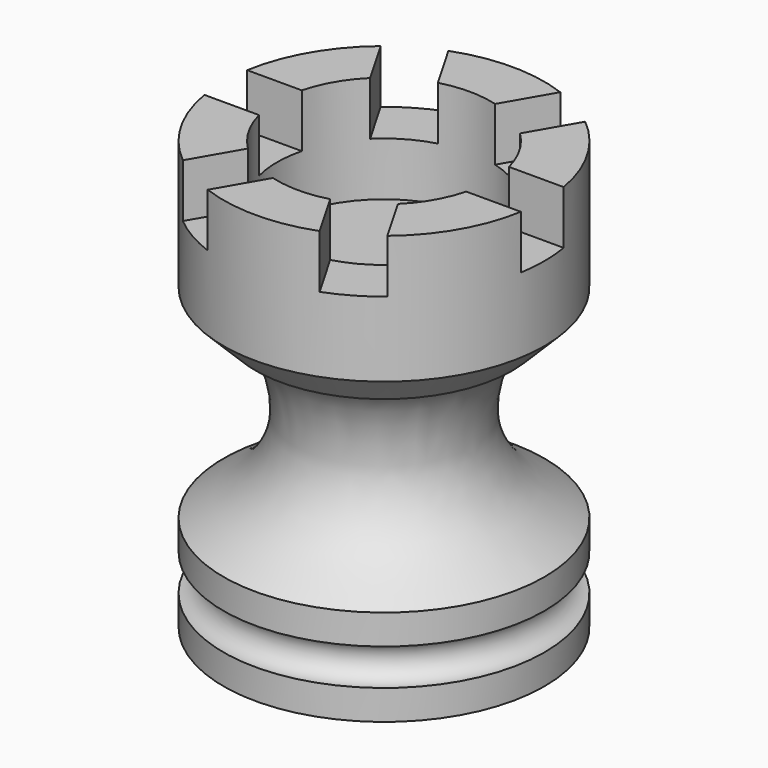
from build123d import *

# Parameters (mm, degrees)
F0_W     = 19.05
F0_H     = 15.875
F2_R     = 12.7
F3_DEPTH = 12.7
F4_W     = 18.4452394214
F4_H     = 6.35
F5_DEPTH = 6.35
F6_SIZE  = 3.81


with BuildPart() as f1:
    # F0 (on Front) → F1 (revolve)
    with BuildSketch(Plane.XZ):
        with Locations((9.525, 42.8625)):
            Rectangle(F0_W, F0_H)
        Polygon((0, 34.925), (0, 31.75), (14.253414236, 31.75), (19.05, 31.75), (19.05, 34.925), align=None)
        with BuildLine():
            Line((0, 31.75), (0, 0))
            Line((0, 0), (19.05, 0))
            Line((19.05, 0), (19.05, 11.43))
            add(Edge.make_bspline(
                [(19.05, 11.43), (17.2572086339, 12.6373357985), (13.2799667332, 14.8563898217), (9.7704239186, 21.2214141551), (11.2775648251, 28.6217539717), (13.1032264861, 30.8617640908), (14.253414236, 31.75)],
                knots=[0, 0, 0, 0, 0.2595608877, 0.5242966156, 0.7928897599, 1, 1, 1, 1], degree=3))
            Line((14.253414236, 31.75), (0, 31.75))
        make_face()
    revolve(axis=Axis((0, 0, 42.8625), (0, 0, 1)))

    # F2 (on face) → F3 (cut)
    with BuildSketch(Plane.XY.offset(50.8)):
        Circle(F2_R)
    extrude(amount=-F3_DEPTH, mode=Mode.SUBTRACT)

    # F4 (on face) → F5 (cut)
    with BuildSketch(Plane.XY.offset(50.8)):
        with Locations((16.3820013404, 0)):
            Rectangle(F4_W, F4_H)
        Polygon((6.3293214719, 4.6127063667), (15.5519411826, 20.5867522845), (10.0526798685, 23.7617522845), (0.8300601578, 7.7877063667), align=None)
        Polygon((-0.8300601578, 7.7877063667), (-10.0526798685, 23.7617522845), (-15.5519411826, 20.5867522845), (-6.3293214719, 4.6127063667), align=None)
        with Locations((-16.3820013404, 0)):
            Rectangle(F4_W, F4_H)
        Polygon((-6.3293214719, -4.6127063667), (-15.5519411826, -20.5867522845), (-10.0526798685, -23.7617522845), (-0.8300601578, -7.7877063667), align=None)
        Polygon((0.8300601578, -7.7877063667), (10.0526798685, -23.7617522845), (15.5519411826, -20.5867522845), (6.3293214719, -4.6127063667), align=None)
    extrude(amount=-F5_DEPTH, mode=Mode.SUBTRACT)

    # F6
    f6_edges = [f1.edges().sort_by_distance(p)[0] for p in [
        (-19.05, 0, 31.75),
    ]]
    chamfer(f6_edges, length=F6_SIZE)

    # F7 (on Front) → F8 (revolve, cut)
    with BuildSketch(Plane.XZ):
        with BuildLine():
            ThreePointArc((19.05, 3.5503547621), (20.5806353266, 4.1843646734), (21.2146452379, 5.715))
            ThreePointArc((21.2146452379, 5.715), (20.5806353266, 7.2456353266), (19.05, 7.8796452379))
            Line((19.05, 7.8796452379), (19.05, 3.5503547621))
        make_face()
        with BuildLine():
            Line((19.05, 3.5503547621), (19.05, 7.8796452379))
            ThreePointArc((19.05, 7.8796452379), (16.8853547621, 5.715), (19.05, 3.5503547621))
        make_face()
    revolve(axis=Axis((0, 0, 0), (0, 0, 1)), mode=Mode.SUBTRACT)


solid = f1.part
